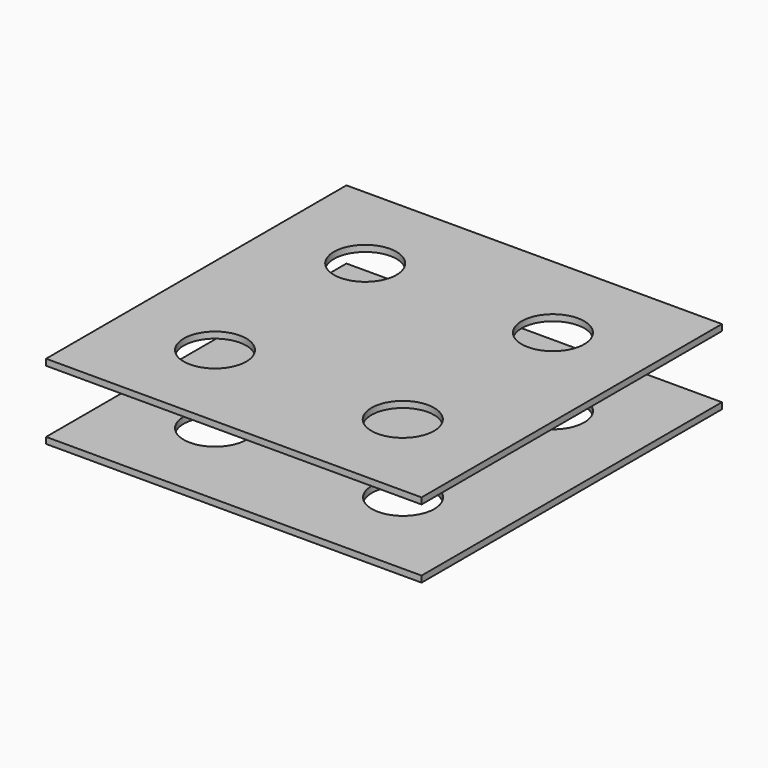
from build123d import *

# Parameters (mm, degrees)
F0_W     = 30
F0_H     = 30
F0_R     = 2.5
F1_DEPTH = 0.5
F3_W     = 30
F3_H     = 30
F3_R     = 2.5
F4_DEPTH = 0.5


with BuildPart() as f1:
    # F0 (on Top) → F1 (new body)
    with BuildSketch(Plane.XY):
        Rectangle(F0_W, F0_H)
        with Locations((-7.5, -7.5)):
            Circle(F0_R, mode=Mode.SUBTRACT)
        with Locations((7.5, -7.470964)):
            Circle(F0_R, mode=Mode.SUBTRACT)
        with Locations((-7.5, 7.5)):
            Circle(F0_R, mode=Mode.SUBTRACT)
        with Locations((7.5, 7.5)):
            Circle(F0_R, mode=Mode.SUBTRACT)
    extrude(amount=F1_DEPTH)


with BuildPart() as f4:
    # F3 (on offset) → F4 (new body)
    with BuildSketch(Plane(origin=(0, -0.000694, 5.5), x_dir=(1, 0, 0), z_dir=(0, 0, 1))):
        Rectangle(F3_W, F3_H)
        with Locations((-7.5, -7.5)):
            Circle(F3_R, mode=Mode.SUBTRACT)
        with Locations((7.5, -7.5)):
            Circle(F3_R, mode=Mode.SUBTRACT)
        with Locations((-7.5, 7.5)):
            Circle(F3_R, mode=Mode.SUBTRACT)
        with Locations((7.5, 7.5)):
            Circle(F3_R, mode=Mode.SUBTRACT)
    extrude(amount=F4_DEPTH)


solid = Compound([f1.part, f4.part])
